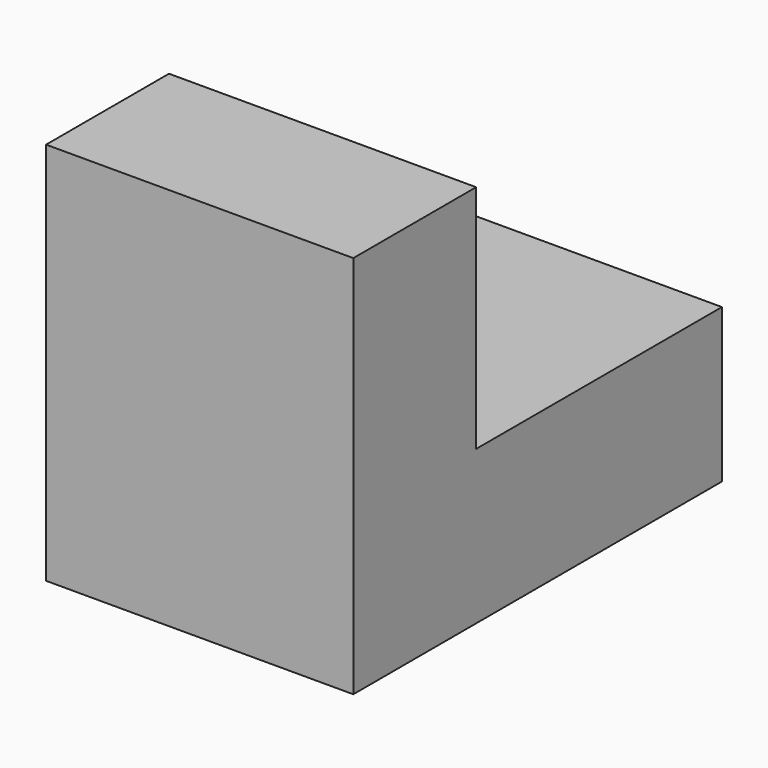
from build123d import *

# Parameters (mm, degrees)
F1_DEPTH = 25.4
F2_DEPTH = 25.4


with BuildPart() as f1:
    # F0 (on Right) → F1 (new body)
    with BuildSketch(Plane.YZ):
        Polygon((-38.1, 0), (0, 0), (0, 12.7), (-25.4, 12.7), (-25.4, 31.75), (-38.1, 31.75), align=None)
    extrude(amount=F1_DEPTH)

    # F0 (on Right) → F2 (join)
    with BuildSketch(Plane.YZ):
        Polygon((-38.1, 0), (0, 0), (0, 12.7), (-25.4, 12.7), (-25.4, 31.75), (-38.1, 31.75), align=None)
    extrude(amount=F2_DEPTH)


solid = f1.part
